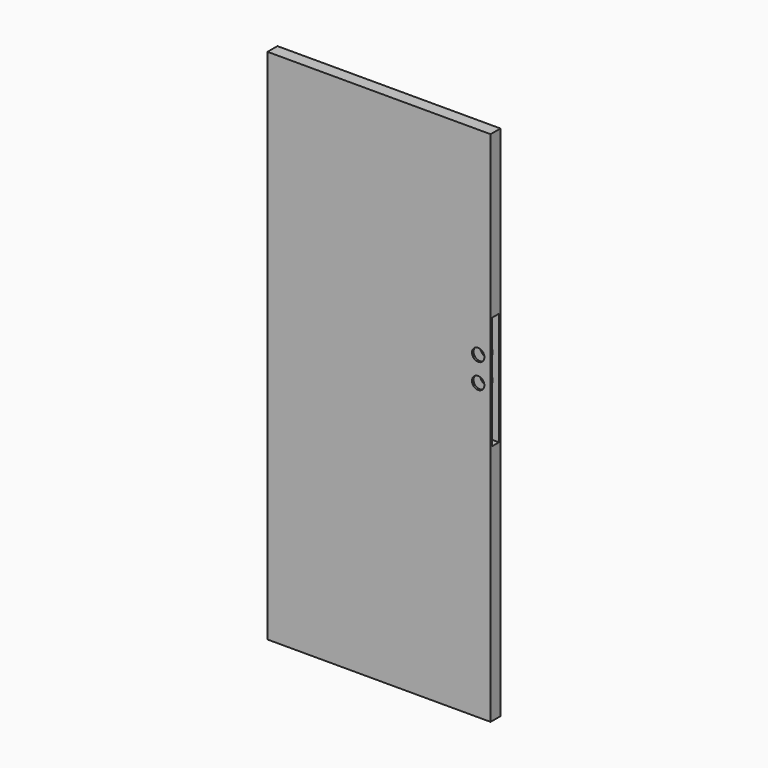
from build123d import *

# Parameters (mm, degrees)
F0_W     = 914.4
F0_H     = 2120.9
F1_DEPTH = 50.8
F2_R     = 25.4
F3_DEPTH = 50.801
F4_W     = 34.790657
F4_H     = 464.079693
F5_DEPTH = 254


with BuildPart() as f1:
    # F0 (on Front) → F1 (new body)
    with BuildSketch(Plane.XZ):
        Rectangle(F0_W, F0_H)
    extrude(amount=F1_DEPTH)

    # F2 (on face) → F3 (cut, through all)
    with BuildSketch(Plane.XZ.offset(50.8)):
        with Locations((406.4, 247.65)):
            Circle(F2_R)
        with Locations((406.4, 146.05)):
            Circle(F2_R)
    extrude(amount=-F3_DEPTH, mode=Mode.SUBTRACT)

    # F4 (on face) → F5 (cut)
    with BuildSketch(Plane.YZ.offset(457.2)):
        with Locations((-25.352478, 163.164123)):
            Rectangle(F4_W, F4_H)
    extrude(amount=-F5_DEPTH, mode=Mode.SUBTRACT)


solid = f1.part
